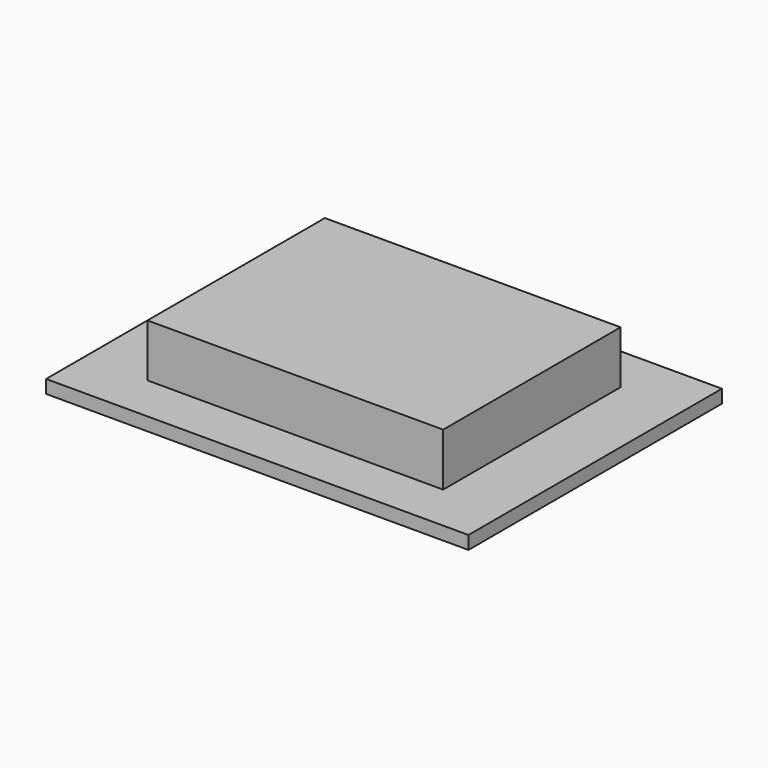
from build123d import *

# Parameters (mm, degrees)
F0_W     = 71.12
F0_H     = 53.34
F0_W_2   = 101.6
F0_H_2   = 76.2
F1_DEPTH = 3.175
F2_DEPTH = 15.875


with BuildPart() as f1:
    # F0 (on Top) → F1 (new body)
    with BuildSketch(Plane.XY):
        Rectangle(F0_W, F0_H)
        Rectangle(F0_W_2, F0_H_2)
        Rectangle(F0_W, F0_H, mode=Mode.SUBTRACT)
    extrude(amount=F1_DEPTH)

    # F0 (on Top) → F2 (join)
    with BuildSketch(Plane.XY):
        Rectangle(F0_W, F0_H)
    extrude(amount=F2_DEPTH)


solid = f1.part
